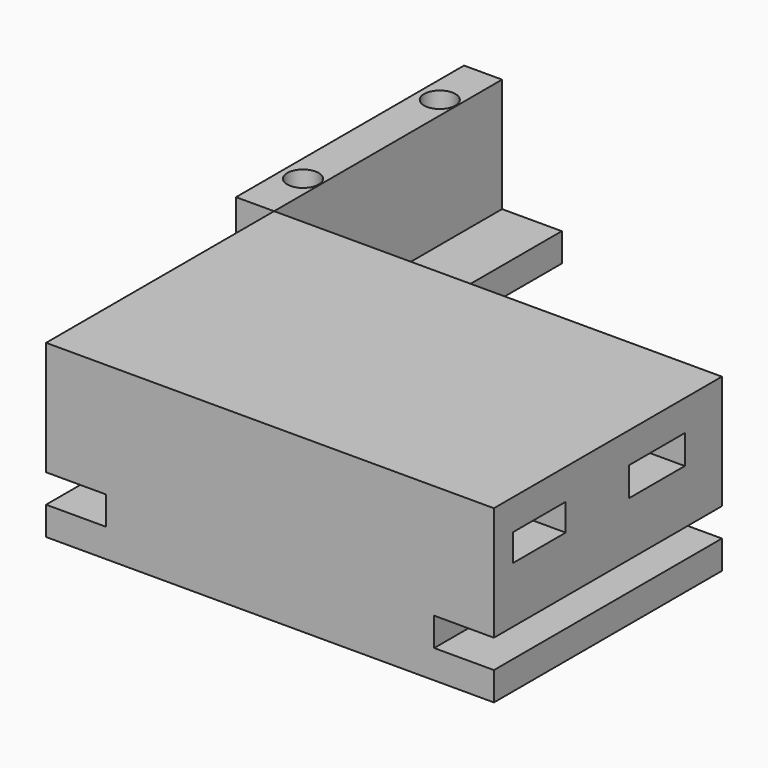
from build123d import *

# Parameters (mm, degrees)
F1_DEPTH = 100
F3_DEPTH = 100
F4_W     = 24.470467
F4_H     = 10.191035
F4_W_2   = 23.147739
F4_H_2   = 9.529671
F5_DEPTH = 157.143865
F6_R     = 5.5
F7_DEPTH = 60.001


with BuildPart() as f1:
    # F0 (on Front) → F1 (new body)
    with BuildSketch(Plane.XZ):
        Polygon((73.864535, -29.198988), (73.864535, 10.801012), (-83.27833, 10.801012), (-83.27833, -29.198988), (-62.325943, -29.198988), (-62.325943, -39.198988), (-83.27833, -39.198988), (-83.27833, -49.198988), (73.864535, -49.198988), (73.864535, -39.198988), (52.912148, -39.198988), (52.912148, -29.198988), align=None)
    extrude(amount=F1_DEPTH)

    # F4 (on face) → F5 (cut, through all)
    with BuildSketch(Plane(origin=(-83.27833, 0, 0), x_dir=(0, -1, 0), z_dir=(-1, 0, 0))):
        with Locations((28.505674, -5.095517)):
            Rectangle(F4_W, F4_H)
        with Locations((80.092061, -4.764836)):
            Rectangle(F4_W_2, F4_H_2)
    extrude(amount=-F5_DEPTH, mode=Mode.SUBTRACT)


with BuildPart() as f3:
    # F2 (on face) → F3 (new body)
    with BuildSketch(Plane(origin=(0, 0, 0), x_dir=(-1, 0, 0), z_dir=(0, 1, 0))):
        Polygon((96.636489, 10.801012), (83.27833, 10.801012), (83.27833, -29.198988), (62.325943, -29.198988), (62.325943, -39.198988), (83.27833, -39.198988), (83.27833, -49.198988), (96.636489, -49.198988), align=None)
    extrude(amount=F3_DEPTH)

    # F6 (on face) → F7 (cut, through all)
    with BuildSketch(Plane.XY.offset(10.801012)):
        with Locations((-89.136489, 80)):
            Circle(F6_R)
        with Locations((-89.136489, 20)):
            Circle(F6_R)
    extrude(amount=-F7_DEPTH, mode=Mode.SUBTRACT)


solid = Compound([f1.part, f3.part])
